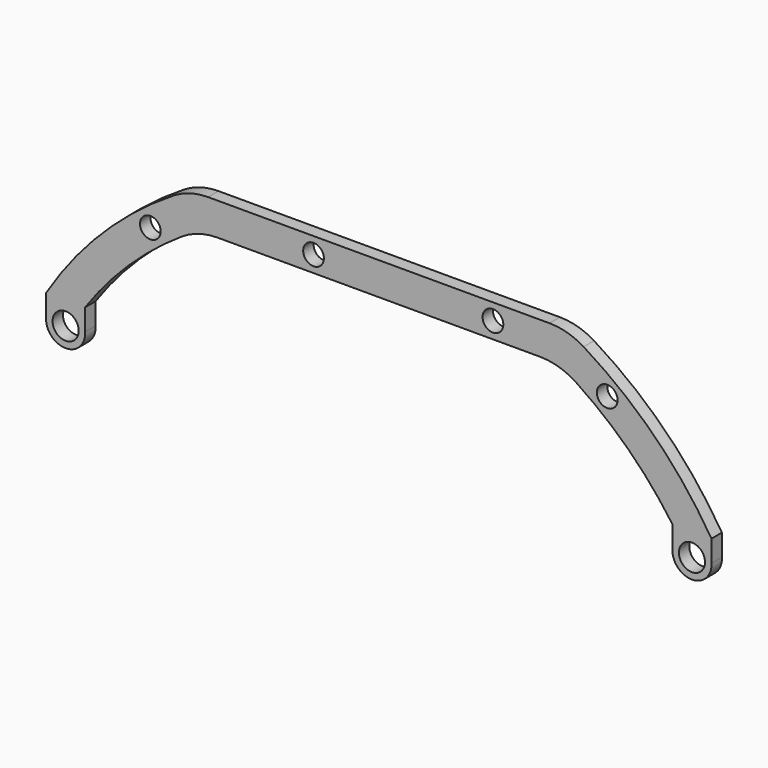
from build123d import *

# Parameters (mm, degrees)
F0_R     = 1.5875
F0_R_2   = 2
F1_DEPTH = 2


with BuildPart() as f1:
    # F0 (on Front) → F1 (new body)
    with BuildSketch(Plane.XZ):
        with BuildLine():
            ThreePointArc((-50.005555, -3.5), (-48.005555, -1.5), (-46.005555, -3.5))
            Line((-46.005555, -3.5), (-45.01111, -3.5))
            Line((-45.01111, -3.5), (-45.01111, -3.317522))
            Line((-45.01111, -3.317522), (-45.01111, 0))
            ThreePointArc((-45.01111, 0), (-38.286737, 7.878805), (-30.204384, 14.357103))
            ThreePointArc((-30.204384, 14.357103), (-27.578771, 15.580476), (-24.712678, 16))
            Line((-24.712678, 16), (0, 16))
            Line((0, 16), (0, 21))
            Line((0, 21), (-26.165757, 21))
            ThreePointArc((-26.165757, 21), (-28.884772, 20.623251), (-31.398909, 19.521392))
            ThreePointArc((-31.398909, 19.521392), (-42.339889, 10.905787), (-51, 0))
            Line((-51, 0), (-51, -3.317522))
            Line((-51, -3.317522), (-51, -3.5))
            Line((-51, -3.5), (-50.005555, -3.5))
        make_face()
        with Locations((-35.017925, 14)):
            Circle(F0_R, mode=Mode.SUBTRACT)
        with Locations((-10, 18.5)):
            Circle(F0_R, mode=Mode.SUBTRACT)
        with BuildLine():
            Line((-45.01111, -3.5), (-46.005555, -3.5))
            ThreePointArc((-46.005555, -3.5), (-48.005555, -5.5), (-50.005555, -3.5))
            Line((-50.005555, -3.5), (-51, -3.5))
            Line((-51, -3.5), (-51, -3.317522))
            ThreePointArc((-51, -3.317522), (-48.005555, -6.5), (-45.01111, -3.317522))
            Line((-45.01111, -3.317522), (-45.01111, -3.5))
        make_face()
        with BuildLine():
            Line((0, 21), (0, 16))
            Line((0, 16), (24.712678, 16))
            ThreePointArc((24.712678, 16), (27.578771, 15.580476), (30.204384, 14.357103))
            ThreePointArc((30.204384, 14.357103), (38.286737, 7.878805), (45.01111, 0))
            Line((45.01111, 0), (45.01111, -3.317522))
            ThreePointArc((45.01111, -3.317522), (48.005555, -6.5), (51, -3.317522))
            Line((51, -3.317522), (51, 0))
            ThreePointArc((51, 0), (42.339889, 10.905787), (31.398909, 19.521392))
            ThreePointArc((31.398909, 19.521392), (28.884772, 20.623251), (26.165757, 21))
            Line((26.165757, 21), (0, 21))
        make_face()
        with Locations((48.005555, -3.5)):
            Circle(F0_R_2, mode=Mode.SUBTRACT)
        with Locations((35.017925, 14)):
            Circle(F0_R, mode=Mode.SUBTRACT)
        with Locations((17.5, 18.5)):
            Circle(F0_R, mode=Mode.SUBTRACT)
    extrude(amount=F1_DEPTH)


solid = f1.part
